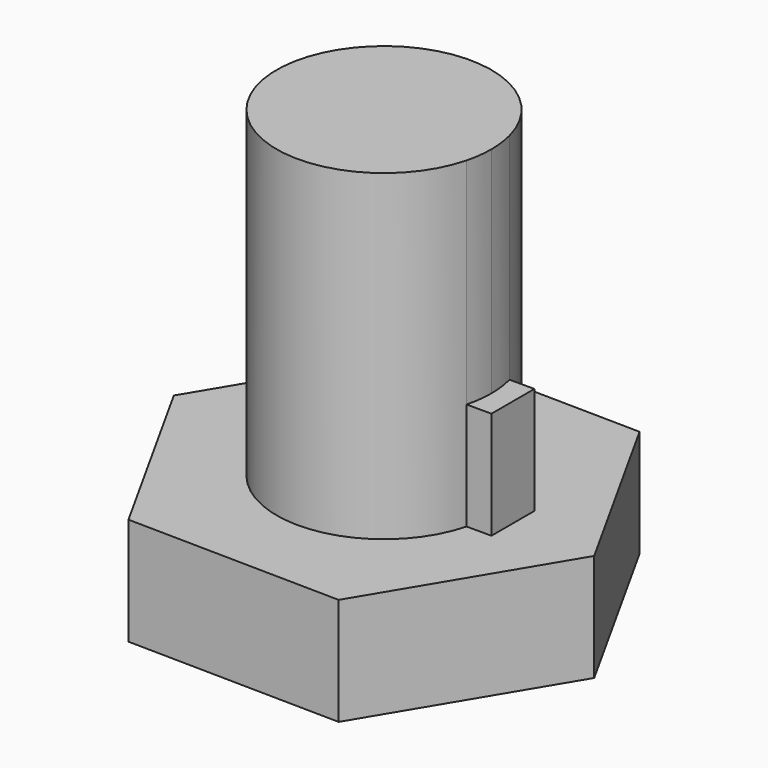
from build123d import *

# Parameters (mm, degrees)
F1_DEPTH = 30
F2_DEPTH = 10
F4_DEPTH = 10


with BuildPart() as f1:
    # F0 (on Top) → F1 (new body)
    with BuildSketch(Plane.XY):
        with BuildLine():
            ThreePointArc((9.682458, -2.5), (9.920297, -1.260043), (10, 0))
            ThreePointArc((10, 0), (9.920297, 1.260043), (9.682458, 2.5))
            ThreePointArc((9.682458, 2.5), (-10, 0), (9.682458, -2.5))
        make_face()
    extrude(amount=F1_DEPTH)

    # F0 (on Top) → F2 (join)
    with BuildSketch(Plane.XY):
        with BuildLine():
            ThreePointArc((9.682458, 2.5), (9.920297, 1.260043), (10, 0))
            ThreePointArc((10, 0), (9.920297, -1.260043), (9.682458, -2.5))
            Line((9.682458, -2.5), (12, -2.5))
            Line((12, -2.5), (12, 2.5))
            Line((12, 2.5), (9.682458, 2.5))
        make_face()
    extrude(amount=F2_DEPTH)

    # F3 (on Top) → F4 (join)
    with BuildSketch(Plane.XY):
        Polygon((-9.633952, 17.320508), (-19.816976, 0.317007), (-10.183024, -17.003501), (9.633952, -17.320508), (19.816976, -0.317007), (10.183024, 17.003501), align=None)
    extrude(amount=-F4_DEPTH)


solid = f1.part
